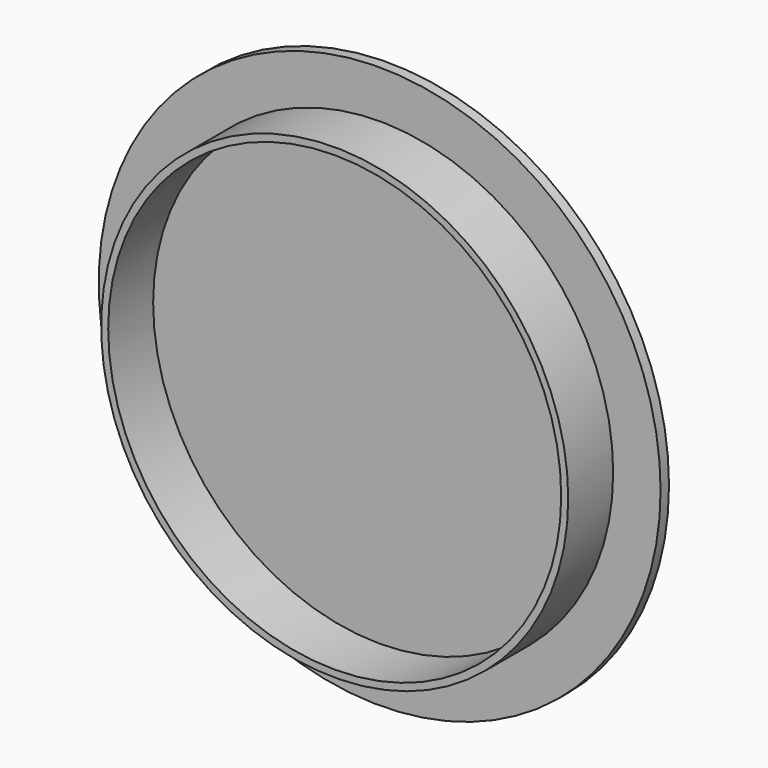
from build123d import *

# Parameters (mm, degrees)
F0_R     = 52.784375
F0_R_2   = 51.196875
F1_DEPTH = 12.7
F2_R     = 63.5
F3_DEPTH = 2.38125


with BuildPart() as f1:
    # F0 (on Front) → F1 (new body)
    with BuildSketch(Plane.XZ):
        Circle(F0_R)
        Circle(F0_R_2, mode=Mode.SUBTRACT)
    extrude(amount=F1_DEPTH)

    # F2 (on Front) → F3 (join)
    with BuildSketch(Plane.XZ):
        Circle(F2_R)
    extrude(amount=-F3_DEPTH)


solid = f1.part
